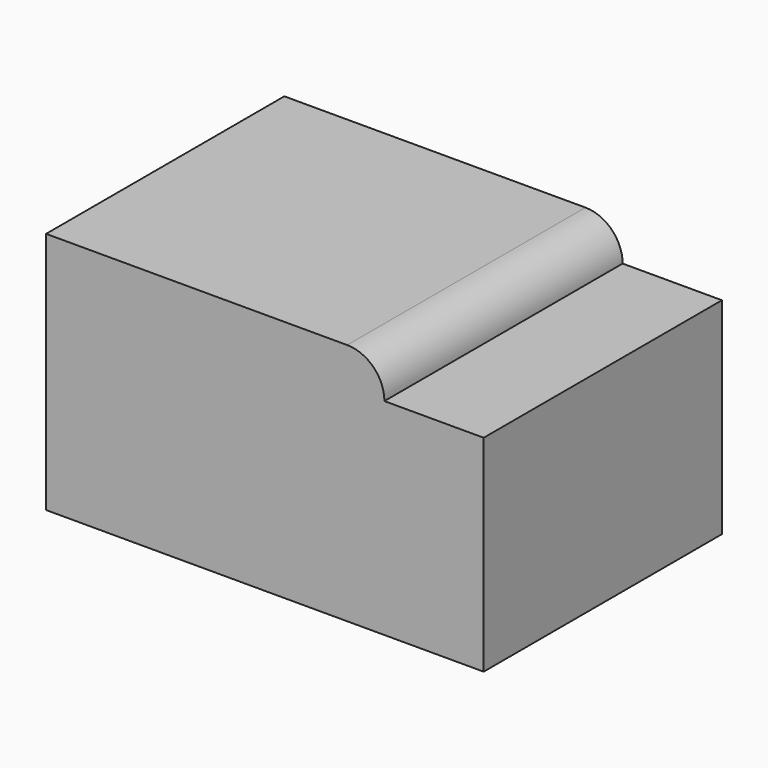
from build123d import *

# Parameters (mm, degrees)
F0_W      = 86.565242
F0_H      = 62.221606
F1_DEPTH  = 76.2
F2_R      = 9.525
F1_FACE_W = 76.2
F1_FACE_H = 52.696606
F3_DEPTH  = 25.4


with BuildPart() as f1:
    # F0 (on Front) → F1 (new body)
    with BuildSketch(Plane.XZ):
        Rectangle(F0_W, F0_H)
    extrude(amount=F1_DEPTH)

    # F2
    f2_edges = [f1.edges().sort_by_distance(p)[0] for p in [
        (43.282621, -38.1, 31.110803),
    ]]
    fillet(f2_edges, radius=F2_R)

    # F1_face (on face) → F3 (join)
    with BuildSketch(Plane(origin=(43.282621, -38.1, -4.7625), x_dir=(0, 1, 0), z_dir=(1, 0, 0))):
        Rectangle(F1_FACE_W, F1_FACE_H)
    extrude(amount=F3_DEPTH)


solid = f1.part
